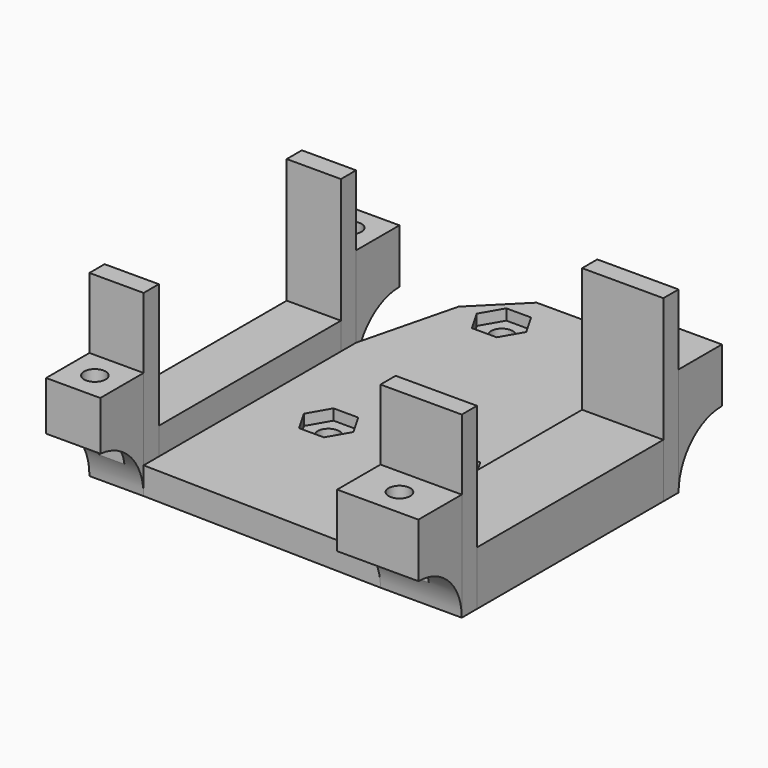
from build123d import *

# Parameters (mm, degrees)
F0_W     = 15
F0_H     = 43
F1_DEPTH = 10
F0_W_2   = 10
F0_H_2   = 42
F0_H_3   = 3.5
F2_DEPTH = 33
F0_H_4   = 10
F0_R     = 2
F3_DEPTH = 20
F4_DEPTH = 9.5
F7_DEPTH = 5
F8_DEPTH = 3


with BuildPart() as f1:
    # F0 (on Top) → F1 (new body)
    with BuildSketch(Plane.XY):
        with Locations((52.5, -35)):
            Rectangle(F0_W, F0_H)
    extrude(amount=F1_DEPTH)


with BuildPart() as f1b:
    # F0 (on Top) → F1, piece 2 (new body)
    with BuildSketch(Plane.XY):
        with Locations((-4.5, -34.5)):
            Rectangle(F0_W_2, F0_H_2)
    extrude(amount=F1_DEPTH)


with BuildPart() as f2:
    # F0 (on Top) → F2 (new body)
    with BuildSketch(Plane.XY):
        with Locations((-4.5, -57.25)):
            Rectangle(F0_W_2, F0_H_3)
    extrude(amount=F2_DEPTH)


with BuildPart() as f2b:
    # F0 (on Top) → F2, piece 2 (new body)
    with BuildSketch(Plane.XY):
        with Locations((-4.5, -11.75)):
            Rectangle(F0_W_2, F0_H_3)
    extrude(amount=F2_DEPTH)


with BuildPart() as f2c:
    # F0 (on Top) → F2, piece 3 (new body)
    with BuildSketch(Plane.XY):
        with Locations((52.5, -11.75)):
            Rectangle(F0_W, F0_H_3)
    extrude(amount=F2_DEPTH)


with BuildPart() as f2d:
    # F0 (on Top) → F2, piece 4 (new body)
    with BuildSketch(Plane.XY):
        with Locations((52.5, -58.25)):
            Rectangle(F0_W, F0_H_3)
    extrude(amount=F2_DEPTH)


with BuildPart() as f3:
    # F0 (on Top) → F3 (new body)
    with BuildSketch(Plane.XY):
        with Locations((52.5, -65)):
            Rectangle(F0_W, F0_H_4)
        Polygon((50.171872402, -68.950330558), (47.8831972674, -64.9862289429), (50.171872402, -61.0221273277), (54.7492226712, -61.0221273277), (57.0378978058, -64.9862289429), (54.7492226712, -68.950330558), align=None, mode=Mode.SUBTRACT)
        Polygon((50.171872402, -61.0221273277), (47.8831972674, -64.9862289429), (50.171872402, -68.950330558), (54.7492226712, -68.950330558), (57.0378978058, -64.9862289429), (54.7492226712, -61.0221273277), align=None)
        with Locations((52.5, -65)):
            Circle(F0_R, mode=Mode.SUBTRACT)
    extrude(amount=F3_DEPTH)


with BuildPart() as f3b:
    # F0 (on Top) → F3, piece 2 (new body)
    with BuildSketch(Plane.XY):
        with Locations((-4.5, -64)):
            Rectangle(F0_W_2, F0_H_4)
        Polygon((-6.7538499958, -68.0085920717), (-9.0425251304, -64.0444904566), (-6.7538499958, -60.0803888414), (-2.1764997267, -60.0803888414), (0.1121754079, -64.0444904566), (-2.1764997267, -68.0085920717), align=None, mode=Mode.SUBTRACT)
        Polygon((-6.7538499958, -60.0803888414), (-9.0425251304, -64.0444904566), (-6.7538499958, -68.0085920717), (-2.1764997267, -68.0085920717), (0.1121754079, -64.0444904566), (-2.1764997267, -60.0803888414), align=None)
        with Locations((-4.5, -64)):
            Circle(F0_R, mode=Mode.SUBTRACT)
    extrude(amount=F3_DEPTH)


with BuildPart() as f3c:
    # F0 (on Top) → F3, piece 3 (new body)
    with BuildSketch(Plane.XY):
        with Locations((-4.5, -5)):
            Rectangle(F0_W_2, F0_H_4)
        Polygon((-6.8026797041, -8.9027622703), (-9.0913548387, -4.9386606552), (-6.8026797041, -0.97455904), (-2.2253294349, -0.97455904), (0.0633456997, -4.9386606552), (-2.2253294349, -8.9027622703), align=None, mode=Mode.SUBTRACT)
        Polygon((-6.8026797041, -0.97455904), (-9.0913548387, -4.9386606552), (-6.8026797041, -8.9027622703), (-2.2253294349, -8.9027622703), (0.0633456997, -4.9386606552), (-2.2253294349, -0.97455904), align=None)
        with Locations((-4.5, -5)):
            Circle(F0_R, mode=Mode.SUBTRACT)
    extrude(amount=F3_DEPTH)


with BuildPart() as f3d:
    # F0 (on Top) → F3, piece 4 (new body)
    with BuildSketch(Plane.XY):
        with Locations((52.5, -5)):
            Rectangle(F0_W, F0_H_4)
        Polygon((50.1551458486, -8.8854019519), (47.866470714, -4.9213003367), (50.1551458486, -0.9571987216), (54.7324961178, -0.9571987216), (57.0211712524, -4.9213003367), (54.7324961178, -8.8854019519), align=None, mode=Mode.SUBTRACT)
        Polygon((50.1551458486, -0.9571987216), (47.866470714, -4.9213003367), (50.1551458486, -8.8854019519), (54.7324961178, -8.8854019519), (57.0211712524, -4.9213003367), (54.7324961178, -0.9571987216), align=None)
        with Locations((52.5, -5)):
            Circle(F0_R, mode=Mode.SUBTRACT)
    extrude(amount=F3_DEPTH)


with BuildPart() as f4_tool:
    # F0 (on Top) → F4 (new body)
    with BuildSketch(Plane.XY):
        Polygon((50.171872402, -61.0221273277), (47.8831972674, -64.9862289429), (50.171872402, -68.950330558), (54.7492226712, -68.950330558), (57.0378978058, -64.9862289429), (54.7492226712, -61.0221273277), align=None)
        with Locations((52.5, -65)):
            Circle(F0_R, mode=Mode.SUBTRACT)
        Polygon((50.1551458486, -0.9571987216), (47.866470714, -4.9213003367), (50.1551458486, -8.8854019519), (54.7324961178, -8.8854019519), (57.0211712524, -4.9213003367), (54.7324961178, -0.9571987216), align=None)
        with Locations((52.5, -5)):
            Circle(F0_R, mode=Mode.SUBTRACT)
        Polygon((-6.7538499958, -60.0803888414), (-9.0425251304, -64.0444904566), (-6.7538499958, -68.0085920717), (-2.1764997267, -68.0085920717), (0.1121754079, -64.0444904566), (-2.1764997267, -60.0803888414), align=None)
        with Locations((-4.5, -64)):
            Circle(F0_R, mode=Mode.SUBTRACT)
        Polygon((-6.8026797041, -0.97455904), (-9.0913548387, -4.9386606552), (-6.8026797041, -8.9027622703), (-2.2253294349, -8.9027622703), (0.0633456997, -4.9386606552), (-2.2253294349, -0.97455904), align=None)
        with Locations((-4.5, -5)):
            Circle(F0_R, mode=Mode.SUBTRACT)
    extrude(amount=F4_DEPTH)


with BuildPart() as f3_1:
    add(f3.part)

    # F4: cut by f4_tool
    add(f4_tool.part, mode=Mode.SUBTRACT)


with BuildPart() as f3b_1:
    add(f3b.part)

    # F4: cut by f4_tool
    add(f4_tool.part, mode=Mode.SUBTRACT)


with BuildPart() as f3c_1:
    add(f3c.part)

    # F4: cut by f4_tool
    add(f4_tool.part, mode=Mode.SUBTRACT)


with BuildPart() as f3d_1:
    add(f3d.part)

    # F4: cut by f4_tool
    add(f4_tool.part, mode=Mode.SUBTRACT)


with BuildPart() as f5_tool:
    # F0 (on Top) → F5 (revolve)
    with BuildSketch(Plane.XY):
        with Locations((52.5, -65)):
            Rectangle(F0_W, F0_H_4)
        Polygon((50.171872402, -68.950330558), (47.8831972674, -64.9862289429), (50.171872402, -61.0221273277), (54.7492226712, -61.0221273277), (57.0378978058, -64.9862289429), (54.7492226712, -68.950330558), align=None, mode=Mode.SUBTRACT)
        Polygon((50.171872402, -61.0221273277), (47.8831972674, -64.9862289429), (50.171872402, -68.950330558), (54.7492226712, -68.950330558), (57.0378978058, -64.9862289429), (54.7492226712, -61.0221273277), align=None)
        with Locations((52.5, -65)):
            Circle(F0_R, mode=Mode.SUBTRACT)
        with Locations((52.5, -65)):
            Circle(F0_R)
        with Locations((-4.5, -64)):
            Rectangle(F0_W_2, F0_H_4)
        Polygon((-6.7538499958, -68.0085920717), (-9.0425251304, -64.0444904566), (-6.7538499958, -60.0803888414), (-2.1764997267, -60.0803888414), (0.1121754079, -64.0444904566), (-2.1764997267, -68.0085920717), align=None, mode=Mode.SUBTRACT)
        Polygon((-6.7538499958, -60.0803888414), (-9.0425251304, -64.0444904566), (-6.7538499958, -68.0085920717), (-2.1764997267, -68.0085920717), (0.1121754079, -64.0444904566), (-2.1764997267, -60.0803888414), align=None)
        with Locations((-4.5, -64)):
            Circle(F0_R, mode=Mode.SUBTRACT)
        with Locations((-4.5, -64)):
            Circle(F0_R)
    revolve(axis=Axis((52.5, -70, 0), (1, 0, 0)))


with BuildPart() as f3_2:
    add(f3_1.part)

    # F5: cut by f5_tool
    add(f5_tool.part, mode=Mode.SUBTRACT)


with BuildPart() as f3b_2:
    add(f3b_1.part)

    # F5: cut by f5_tool
    add(f5_tool.part, mode=Mode.SUBTRACT)


with BuildPart() as f6_tool:
    # F0 (on Top) → F6 (revolve)
    with BuildSketch(Plane.XY):
        with Locations((52.5, -5)):
            Rectangle(F0_W, F0_H_4)
        Polygon((50.1551458486, -8.8854019519), (47.866470714, -4.9213003367), (50.1551458486, -0.9571987216), (54.7324961178, -0.9571987216), (57.0211712524, -4.9213003367), (54.7324961178, -8.8854019519), align=None, mode=Mode.SUBTRACT)
        Polygon((50.1551458486, -0.9571987216), (47.866470714, -4.9213003367), (50.1551458486, -8.8854019519), (54.7324961178, -8.8854019519), (57.0211712524, -4.9213003367), (54.7324961178, -0.9571987216), align=None)
        with Locations((52.5, -5)):
            Circle(F0_R, mode=Mode.SUBTRACT)
        with Locations((52.5, -5)):
            Circle(F0_R)
        with Locations((-4.5, -5)):
            Rectangle(F0_W_2, F0_H_4)
        Polygon((-6.8026797041, -8.9027622703), (-9.0913548387, -4.9386606552), (-6.8026797041, -0.97455904), (-2.2253294349, -0.97455904), (0.0633456997, -4.9386606552), (-2.2253294349, -8.9027622703), align=None, mode=Mode.SUBTRACT)
        Polygon((-6.8026797041, -0.97455904), (-9.0913548387, -4.9386606552), (-6.8026797041, -8.9027622703), (-2.2253294349, -8.9027622703), (0.0633456997, -4.9386606552), (-2.2253294349, -0.97455904), align=None)
        with Locations((-4.5, -5)):
            Circle(F0_R, mode=Mode.SUBTRACT)
        with Locations((-4.5, -5)):
            Circle(F0_R)
    revolve(axis=Axis((52.5, 0, 0), (1, 0, 0)))


with BuildPart() as f3c_2:
    add(f3c_1.part)

    # F6: cut by f6_tool
    add(f6_tool.part, mode=Mode.SUBTRACT)


with BuildPart() as f3d_2:
    add(f3d_1.part)

    # F6: cut by f6_tool
    add(f6_tool.part, mode=Mode.SUBTRACT)


with BuildPart() as f7:
    # F0 (on Top) → F7 (new body)
    with BuildSketch(Plane.XY):
        Polygon((45, -13.5), (45, -10), (43.5, 8), (35.5252214486, 15.9999602423), (13, 16), (5, 8), (0.5, -10), (0.5, -13.5), (0.5, -55.5), (0.5, -59), (45, -60), (45, -56.5), align=None)
        Polygon((10.7534305551, -35.963216516), (8.4647554205, -31.9991149008), (10.7534305551, -28.0350132857), (15.3307808242, -28.0350132857), (17.6194559588, -31.9991149008), (15.3307808242, -35.963216516), align=None, mode=Mode.SUBTRACT)
        Polygon((33.2279967018, -35.9242164518), (30.9393215672, -31.9601148367), (33.2279967018, -27.9960132216), (37.805346971, -27.9960132216), (40.0940221056, -31.9601148367), (37.805346971, -35.9242164518), align=None, mode=Mode.SUBTRACT)
        Polygon((10.7013584473, 3.9654907782), (8.4126833127, 7.9295923933), (10.7013584473, 11.8936940085), (15.2787087164, 11.8936940085), (17.567383851, 7.9295923933), (15.2787087164, 3.9654907782), align=None, mode=Mode.SUBTRACT)
        Polygon((33.2386137791, 4.0384794597), (30.9499386445, 8.0025810748), (33.2386137791, 11.96668269), (37.8159640483, 11.96668269), (40.1046391829, 8.0025810748), (37.8159640483, 4.0384794597), align=None, mode=Mode.SUBTRACT)
    extrude(amount=F7_DEPTH)

    # F0 (on Top) → F8 (join)
    with BuildSketch(Plane.XY):
        Polygon((10.7534305551, -28.0350132857), (8.4647554205, -31.9991149008), (10.7534305551, -35.963216516), (15.3307808242, -35.963216516), (17.6194559588, -31.9991149008), (15.3307808242, -28.0350132857), align=None)
        with Locations((13, -32)):
            Circle(F0_R, mode=Mode.SUBTRACT)
        Polygon((33.2279967018, -27.9960132216), (30.9393215672, -31.9601148367), (33.2279967018, -35.9242164518), (37.805346971, -35.9242164518), (40.0940221056, -31.9601148367), (37.805346971, -27.9960132216), align=None)
        with Locations((35.5, -32)):
            Circle(F0_R, mode=Mode.SUBTRACT)
        Polygon((33.2386137791, 11.96668269), (30.9499386445, 8.0025810748), (33.2386137791, 4.0384794597), (37.8159640483, 4.0384794597), (40.1046391829, 8.0025810748), (37.8159640483, 11.96668269), align=None)
        with Locations((35.5, 8)):
            Circle(F0_R, mode=Mode.SUBTRACT)
        Polygon((10.7013584473, 11.8936940085), (8.4126833127, 7.9295923933), (10.7013584473, 3.9654907782), (15.2787087164, 3.9654907782), (17.567383851, 7.9295923933), (15.2787087164, 11.8936940085), align=None)
        with Locations((13, 8)):
            Circle(F0_R, mode=Mode.SUBTRACT)
    extrude(amount=F8_DEPTH)


solid = Compound([f1.part, f1b.part, f2.part, f2b.part, f2c.part, f2d.part, f3_2.part, f3b_2.part, f3c_2.part, f3d_2.part, f7.part])
